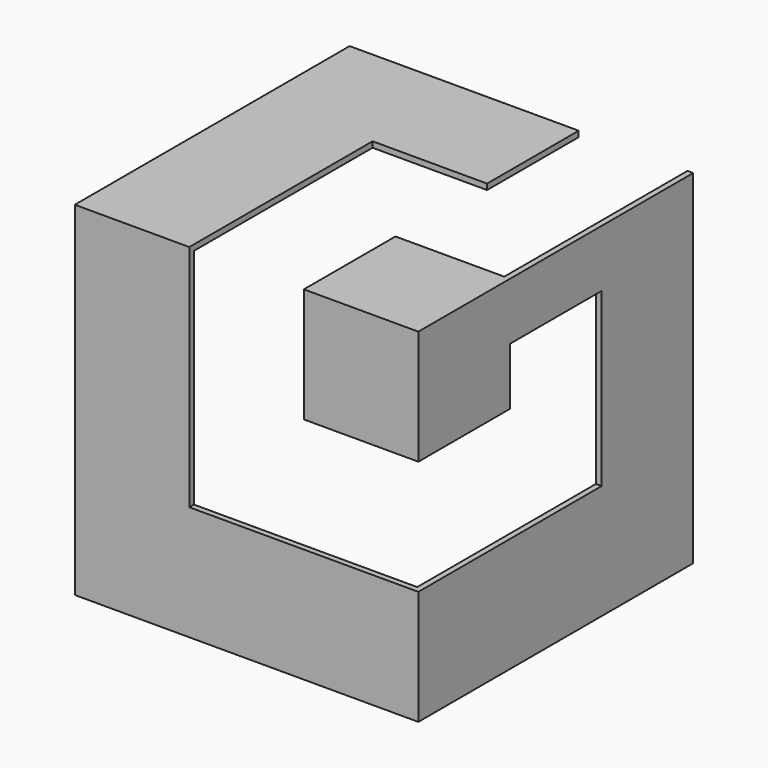
from build123d import *

# Parameters (mm, degrees)
F0_W      = 60
F0_H      = 60
F1_DEPTH  = 60
F2_W      = 19
F2_H      = 20
F3_DEPTH  = 60.001
F5_DEPTH  = 60.001
F6_W      = 19
F6_H      = 19
F5_FACE_W = 20
F5_FACE_H = 20
F7_DEPTH  = 25
F9_DEPTH  = 60.001
F11_DEPTH = 20.001
F12_W     = 1
F12_H     = 20
F12_W_2   = 20
F12_H_2   = 1
F13_DEPTH = 2


with BuildPart() as f1:
    # F0 (on Top) → F1 (new body)
    with BuildSketch(Plane.XY):
        Rectangle(F0_W, F0_H)
    extrude(amount=F1_DEPTH)

    # F2 (on face) → F3 (cut, through all)
    with BuildSketch(Plane.XY.offset(60)):
        Polygon((10, -10), (29, -10), (29, 10), (10, 10), (-10, 10), (-10, -29), (10, -29), align=None)
        with Locations((19.5, 20)):
            Rectangle(F2_W, F2_H)
    extrude(amount=-F3_DEPTH, mode=Mode.SUBTRACT)

    # F4 (on face) → F5 (cut, through all)
    with BuildSketch(Plane.XZ.offset(30)):
        Polygon((10, 59), (-10, 59), (-10, 20), (29, 20), (29, 40), (10, 40), align=None)
    extrude(amount=-F5_DEPTH, mode=Mode.SUBTRACT)

    # F6 (on face) + F5_face (on face) → F7 (cut)
    with BuildSketch(Plane.XY.offset(20)):
        with Locations((19.5, -19.5)):
            Rectangle(F6_W, F6_H)
    with BuildSketch(Plane(origin=(18.525, -20.475, 20), x_dir=(1, 0, 0), z_dir=(0, 0, 1))):
        with Locations((-18.525, 40.475)):
            Rectangle(F5_FACE_W, F5_FACE_H)
    extrude(amount=-F7_DEPTH, mode=Mode.SUBTRACT)

    # F8 (on face) → F9 (cut, through all)
    with BuildSketch(Plane.YZ.offset(30)):
        Polygon((-29, 40), (-29, 20), (10, 20), (10, 50), (-10, 50), (-10, 40), align=None)
    extrude(amount=-F9_DEPTH, mode=Mode.SUBTRACT)

    # F10 (on face) → F11 (cut, through all)
    with BuildSketch(Plane.YZ.offset(-10)):
        Polygon((30, 0), (30, 59), (10, 59), (-29, 59), (-29, 40), (-10, 40), (-10, 50), (10, 50), (10, 20), (-29, 20), (-29, 0), align=None)
    extrude(amount=-F11_DEPTH, mode=Mode.SUBTRACT)

    # F12 (on face) → F13 (cut)
    with BuildSketch(Plane.XZ.offset(30)):
        with Locations((29.5, 30)):
            Rectangle(F12_W, F12_H)
        with Locations((0, 59.5)):
            Rectangle(F12_W_2, F12_H_2)
    extrude(amount=-F13_DEPTH, mode=Mode.SUBTRACT)


solid = f1.part
